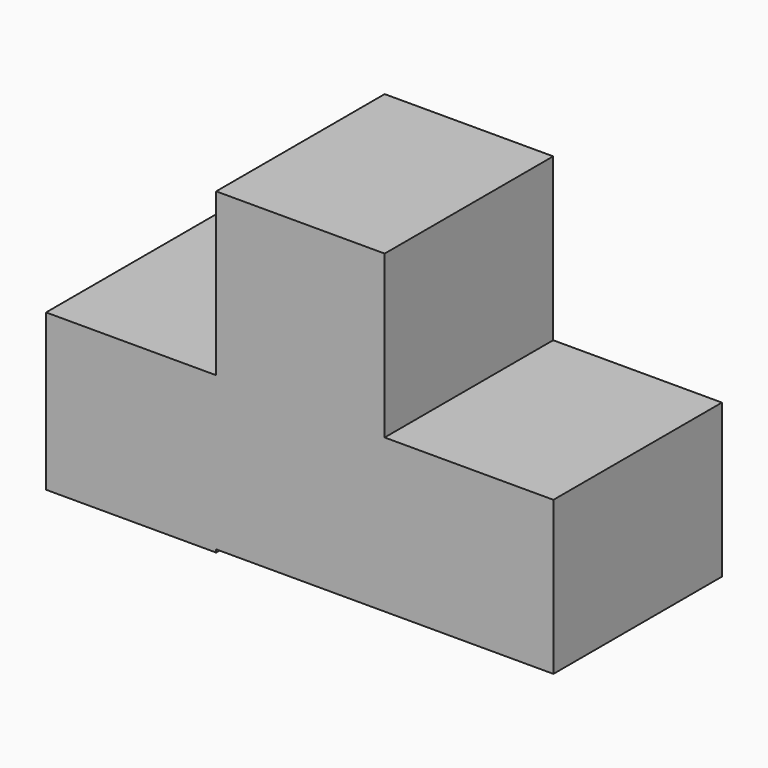
from build123d import *

# Parameters (mm, degrees)
F0_W     = 20.32
F0_H     = 18.4829973394
F0_H_2   = 19.5233401282
F0_W_2   = 20.3507310414
F1_DEPTH = 25.4


with BuildPart() as f1:
    # F0 (on Front) → F1 (new body)
    with BuildSketch(Plane.XZ):
        with Locations((0, 6.7764989921)):
            Rectangle(F0_W, F0_H)
        with Locations((0, 25.7796677259)):
            Rectangle(F0_W, F0_H_2)
        with Locations((20.3353655207, 6.7764989921)):
            Rectangle(F0_W_2, F0_H)
        Polygon((-10.16, -2.4649996776), (-10.16, 16.0179976618), (-30.6711569428, 16.0179976618), (-30.6711569428, -2.8106316458), (-10.16, -2.8106316458), align=None)
    extrude(amount=F1_DEPTH)


solid = f1.part
